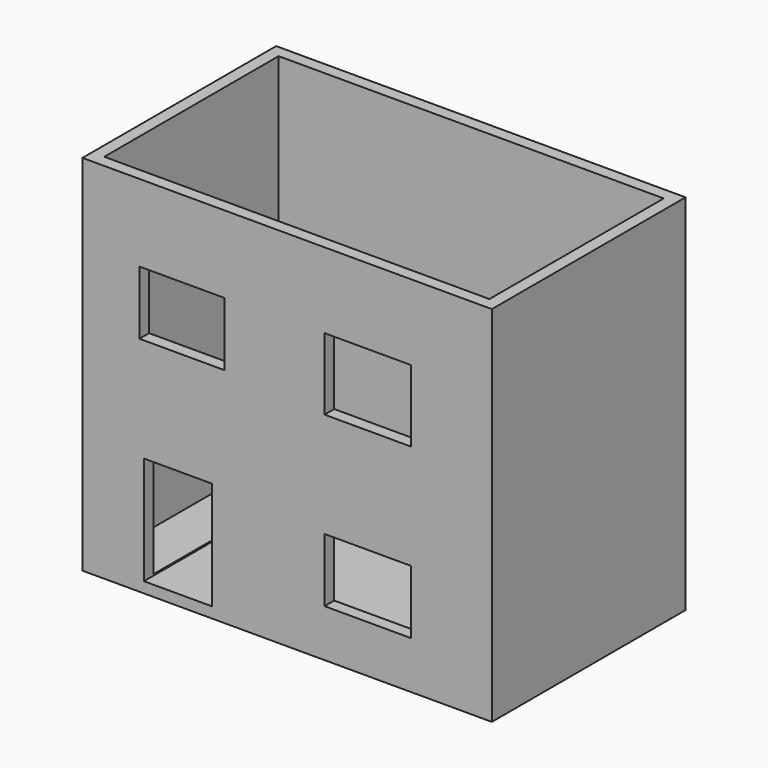
from build123d import *

# Parameters (mm, degrees)
F0_W     = 85.893087
F0_H     = 76.244824
F1_DEPTH = 50.8
F2_T     = -2.54
F3_W     = 17.883054
F3_H     = 13.338813
F3_W_2   = 18.097924
F3_H_2   = 15.061585
F3_H_3   = 13.338815
F3_W_3   = 14.340789
F3_H_4   = 22.664875
F4_DEPTH = 25.4


with BuildPart() as f1:
    # F0 (on Front) → F1 (new body)
    with BuildSketch(Plane.XZ):
        with Locations((2.00025, -38.122412)):
            Rectangle(F0_W, F0_H)
    extrude(amount=F1_DEPTH)

    # F2
    f2_openings = [f1.faces().sort_by_distance(p)[0] for p in [
        (2.00025, -25.4, 0),
    ]]
    offset(amount=F2_T, openings=f2_openings)

    # F3 (on face) → F4 (cut)
    with BuildSketch(Plane.XZ.offset(50.8)):
        with Locations((-20.056449, -22.847423)):
            Rectangle(F3_W, F3_H)
        with Locations((18.888849, -23.377542)):
            Rectangle(F3_W_2, F3_H_2)
        with Locations((18.888849, -59.610495)):
            Rectangle(F3_W_2, F3_H_3)
        with Locations((-20.887177, -62.660388)):
            Rectangle(F3_W_3, F3_H_4)
    extrude(amount=-F4_DEPTH, mode=Mode.SUBTRACT)


solid = f1.part
